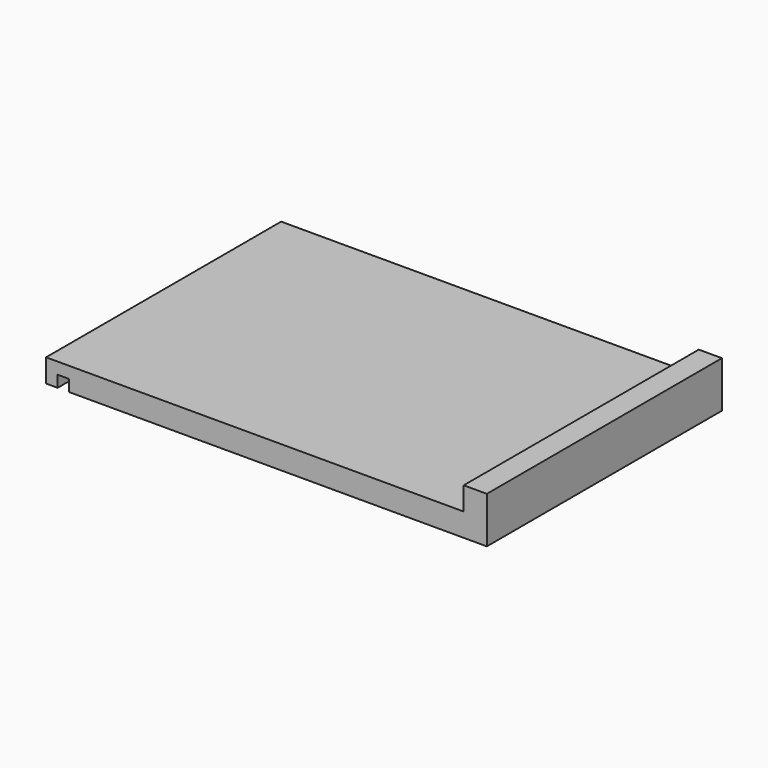
from build123d import *

# Parameters (mm, degrees)
F0_W     = 38.1
F0_H     = 25.4
F1_DEPTH = 2
F2_W     = 2
F2_H     = 25.4
F3_DEPTH = 2
F4_W     = 1
F4_H     = 25.4
F5_DEPTH = 1


with BuildPart() as f1:
    # F0 (on Top) → F1 (new body)
    with BuildSketch(Plane.XY):
        with Locations((1.353553, -0.729692)):
            Rectangle(F0_W, F0_H)
    extrude(amount=F1_DEPTH)

    # F2 (on face) → F3 (join)
    with BuildSketch(Plane.XY.offset(2)):
        with Locations((19.403553, -0.729692)):
            Rectangle(F2_W, F2_H)
    extrude(amount=F3_DEPTH)

    # F4 (on face) → F5 (cut)
    with BuildSketch(Plane(origin=(0, 0, 0), x_dir=(1, 0, 0), z_dir=(0, 0, -1))):
        with Locations((-16.196447, 0.729692)):
            Rectangle(F4_W, F4_H)
    extrude(amount=-F5_DEPTH, mode=Mode.SUBTRACT)


solid = f1.part
